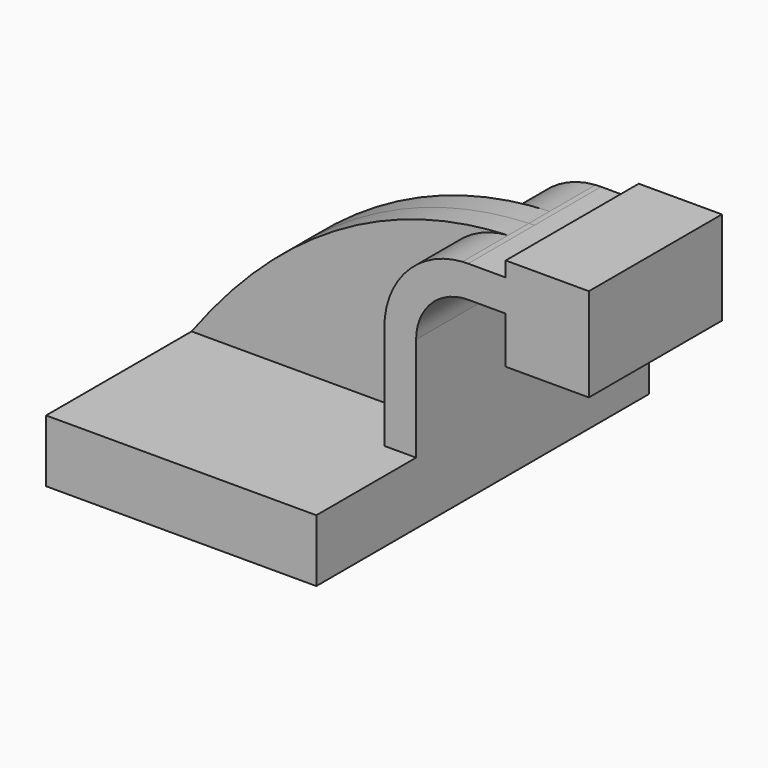
from build123d import *

# Parameters (mm, degrees)
F1_DEPTH = 63.5
F2_DEPTH = 25.4
F3_DEPTH = 7.9375
F4_DEPTH = 25.4


with BuildPart() as f1:
    # F0 (on Front) → F1 (new body, symmetric)
    with BuildSketch(Plane.XZ):
        Polygon((-41.275, 9.525), (-41.275, -9.525), (41.275, -9.525), (41.275, 9.525), (31.566352, 9.525), align=None)
    extrude(amount=F1_DEPTH, both=True)

    # F0 (on Front) → F2 (join, symmetric)
    with BuildSketch(Plane.XZ):
        with BuildLine():
            Line((31.566352, 9.525), (41.275, 9.525))
            Line((41.275, 9.525), (41.275, 41.2877))
            ThreePointArc((41.275, 41.2877), (45.92468, 52.51302), (57.15, 57.1627))
            Line((57.15, 57.1627), (68.645397, 57.1627))
            Line((68.645397, 57.1627), (68.645397, 66.871348))
            Line((68.645397, 66.871348), (57.15, 66.871348))
            add(Edge.make_bspline(
                [(55.419964, 66.812786), (55.99465, 66.83655), (56.571327, 66.856085), (57.15, 66.871348)],
                knots=[112.39165, 112.39165, 112.39165, 112.39165, 113.912617, 113.912617, 113.912617, 113.912617], degree=3))
            ThreePointArc((55.419964, 66.812786), (38.457974, 58.755705), (31.566352, 41.2877))
            Line((31.566352, 41.2877), (31.566352, 9.525))
        make_face()
    extrude(amount=F2_DEPTH, both=True)

    # F0 (on Front) → F3 (join, symmetric)
    with BuildSketch(Plane.XZ):
        with BuildLine():
            add(Edge.make_bspline(
                [(-41.275, 9.525), (-18.64041, 40.209658), (12.953615, 65.056772), (55.419964, 66.812786)],
                knots=[0, 0, 0, 0, 112.39165, 112.39165, 112.39165, 112.39165], degree=3))
            Line((-41.275, 9.525), (31.566352, 9.525))
            Line((31.566352, 9.525), (31.566352, 41.2877))
            ThreePointArc((31.566352, 41.2877), (38.457974, 58.755705), (55.419964, 66.812786))
        make_face()
    extrude(amount=F3_DEPTH, both=True)

    # F0 (on Front) → F4 (join, symmetric)
    with BuildSketch(Plane.XZ):
        Polygon((68.645397, 71.4502), (68.645397, 66.871348), (68.645397, 57.1627), (68.645397, 42.8752), (85.446604, 42.8752), (84.830329, 71.4502), align=None)
        Polygon((94.045397, 71.4502), (84.830329, 71.4502), (85.446604, 42.8752), (94.045397, 42.8752), (94.045397, 57.1627), align=None)
    extrude(amount=F4_DEPTH, both=True)


solid = f1.part
